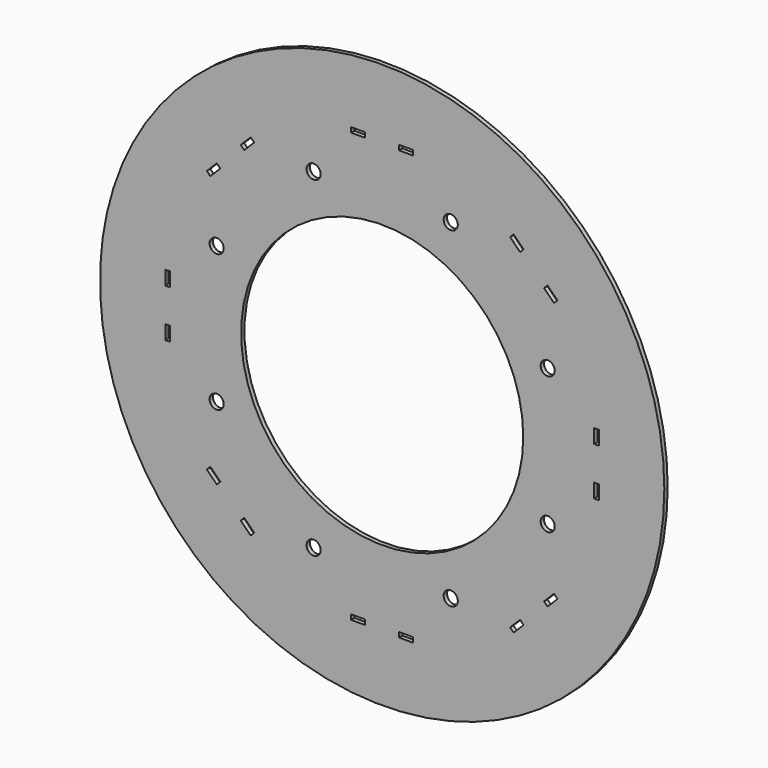
from build123d import *

# Parameters (mm, degrees)
SKETCH_R           = 200
SKETCH_R_2         = 100
SKETCH_W           = 3.25
SKETCH_H           = 10
PAD_DEPTH          = 3
SKETCH001_W        = 3.5
SKETCH001_H        = 10
POCKET_DEPTH       = 1134.38776
POLARPATTERN_COUNT = 8
SKETCH002_R        = 5
POCKET001_DEPTH    = 5


with BuildPart() as part:
    # Sketch → Pad (new body)
    with BuildSketch(Plane.XZ):
        Circle(SKETCH_R)
        Circle(SKETCH_R_2, mode=Mode.SUBTRACT)
        with Locations((-152, 17)):
            Rectangle(SKETCH_W, SKETCH_H, mode=Mode.SUBTRACT)
        with Locations((-152, -17)):
            Rectangle(SKETCH_W, SKETCH_H, mode=Mode.SUBTRACT)
    extrude(amount=PAD_DEPTH)

    # Sketch001 → Pocket (cut, through all)
    with BuildSketch(Plane.XZ):
        with Locations((-152, 17)):
            Rectangle(SKETCH001_W, SKETCH001_H)
        with Locations((-152, -17)):
            Rectangle(SKETCH001_W, SKETCH001_H)
    pocket = extrude(amount=POCKET_DEPTH, mode=Mode.SUBTRACT)

    # PolarPattern: Pocket ×8 about axis
    polarpattern_axis = Axis((0, 0, 0), (0, -1, 0))
    for i in range(1, POLARPATTERN_COUNT):
        add(pocket.rotate(polarpattern_axis, i * 360 / POLARPATTERN_COUNT), mode=Mode.SUBTRACT)

    # Sketch002 → Pocket001 (cut)
    with BuildSketch(Plane.XZ):
        with Locations((-117.332701, 48.600796)):
            Circle(SKETCH002_R)
        with Locations((-48.600796, 117.332701)):
            Circle(SKETCH002_R)
        with Locations((48.600796, 117.332701)):
            Circle(SKETCH002_R)
        with Locations((117.332701, 48.600796)):
            Circle(SKETCH002_R)
        with Locations((117.332701, -48.600796)):
            Circle(SKETCH002_R)
        with Locations((48.600796, -117.332701)):
            Circle(SKETCH002_R)
        with Locations((-48.600796, -117.332701)):
            Circle(SKETCH002_R)
        with Locations((-117.332701, -48.600796)):
            Circle(SKETCH002_R)
    extrude(amount=POCKET001_DEPTH, mode=Mode.SUBTRACT)


solid = part.part
